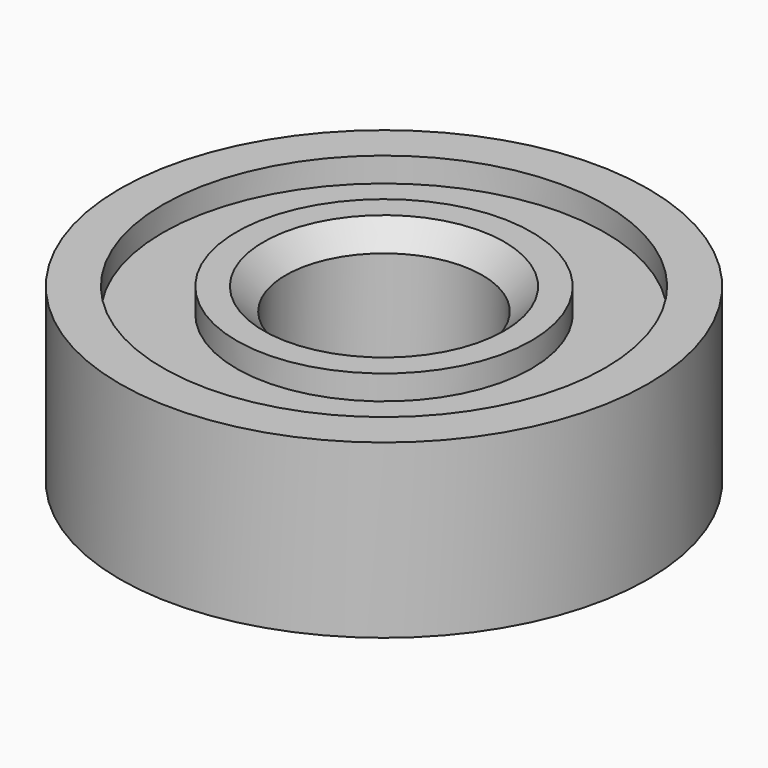
from build123d import *

# Parameters (mm, degrees)
F0_R     = 9
F0_R_2   = 6
F1_DEPTH = 2.5
F0_R_3   = 10.75
F0_R_4   = 4
F2_DEPTH = 3.5
F4_SIZE  = 0.9


with BuildPart() as f1:
    # F0 (on Top) → F1 (new body, symmetric)
    with BuildSketch(Plane.XY):
        Circle(F0_R)
        Circle(F0_R_2, mode=Mode.SUBTRACT)
    extrude(amount=F1_DEPTH, both=True)

    # F0 (on Top) → F2 (join, symmetric)
    with BuildSketch(Plane.XY):
        Circle(F0_R_3)
        Circle(F0_R, mode=Mode.SUBTRACT)
        Circle(F0_R_2)
        Circle(F0_R_4, mode=Mode.SUBTRACT)
    extrude(amount=F2_DEPTH, both=True)


with BuildPart() as f1_1:
    # F3: moved
    add(f1.part.moved(Location((0, 0, 4.5))))

    # F4
    f4_edges = [f1_1.edges().sort_by_distance(p)[0] for p in [
        (-4, 0, 8),
        (-4, 0, 1),
    ]]
    chamfer(f4_edges, length=F4_SIZE)


with BuildPart() as f1_2:
    # F5: moved
    add(f1_1.part.moved(Location((0, 0, 2.5))))


solid = f1_2.part
